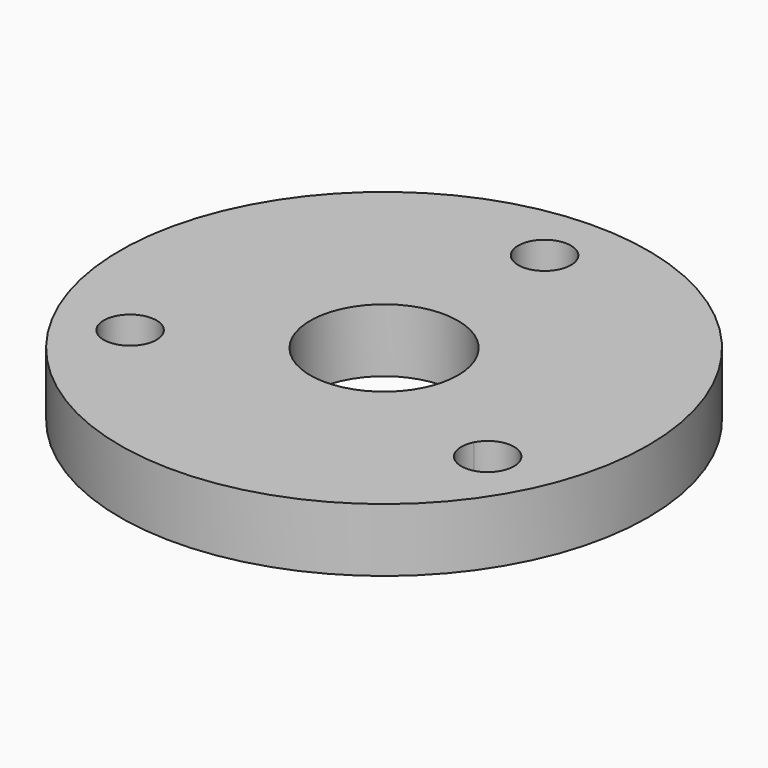
from build123d import *

# Parameters (mm, degrees)
F0_R     = 25
F0_R_2   = 2.5
F1_DEPTH = 6


with BuildPart() as f1:
    # F0 (on Top) → F1 (new body)
    with BuildSketch(Plane.XY):
        Circle(F0_R)
        with Locations((-16.4544826719, -9.5)):
            Circle(F0_R_2, mode=Mode.SUBTRACT)
        with BuildLine():
            ThreePointArc((19.3448900075, -8.7891797476), (16.2495255138, -11.2172532884), (14.6284571118, -7.6327087282))
            ThreePointArc((14.6284571118, -7.6327087282), (17.4402545012, -6.3611062068), (19.3448900075, -8.7891797476))
        make_face(mode=Mode.SUBTRACT)
        with BuildLine():
            ThreePointArc((6.206012108, -3.2381188544), (-6.7986059143, 1.6670205823), (7, 0))
            ThreePointArc((7, 0), (6.7986059143, -1.6670205823), (6.206012108, -3.2381188544))
        make_face(mode=Mode.SUBTRACT)
        with Locations((0, 19)):
            Circle(F0_R_2, mode=Mode.SUBTRACT)
    extrude(amount=F1_DEPTH)


solid = f1.part
